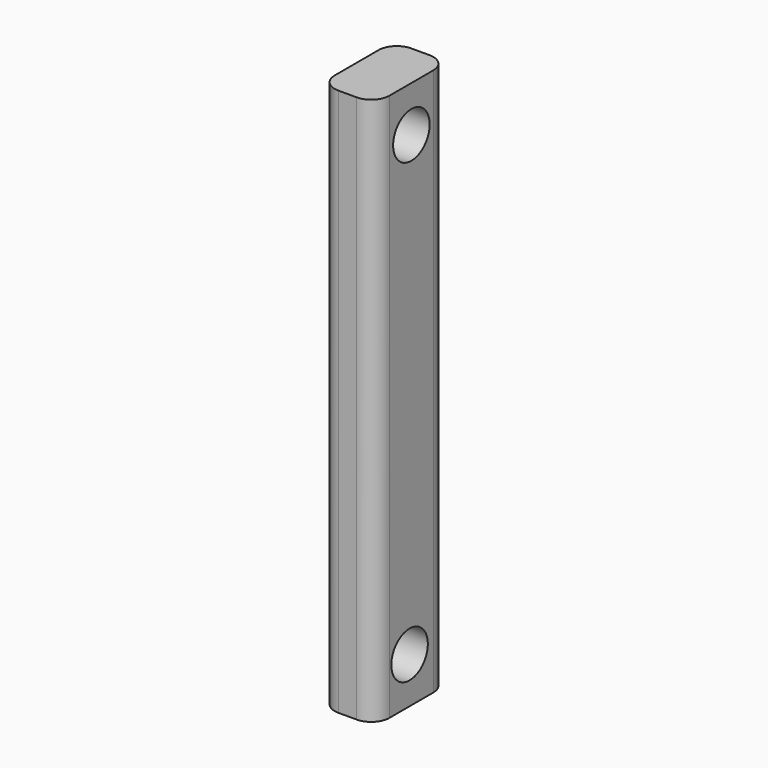
from build123d import *

# Parameters (mm, degrees)
F0_W     = 60
F0_H     = 100
F1_DEPTH = 600
F2_R     = 20
F4_D     = 50


with BuildPart() as f1:
    # F0 (on Top) → F1 (new body)
    with BuildSketch(Plane.XY):
        with Locations((0.74253, 27.593936)):
            Rectangle(F0_W, F0_H)
    extrude(amount=F1_DEPTH)

    # F2
    f2_edges = [f1.edges().sort_by_distance(p)[0] for p in [
        (-29.25747, -22.406064, 300),
        (30.74253, -22.406064, 300),
        (30.74253, 77.593936, 300),
        (-29.25747, 77.593936, 300),
    ]]
    fillet(f2_edges, radius=F2_R)

    # F4 (through all)
    with Locations(Plane.YZ.offset(30.74253)):
        with Locations((27.593936, 550), (25.096449, 50)):
            Hole(F4_D / 2)


solid = f1.part
